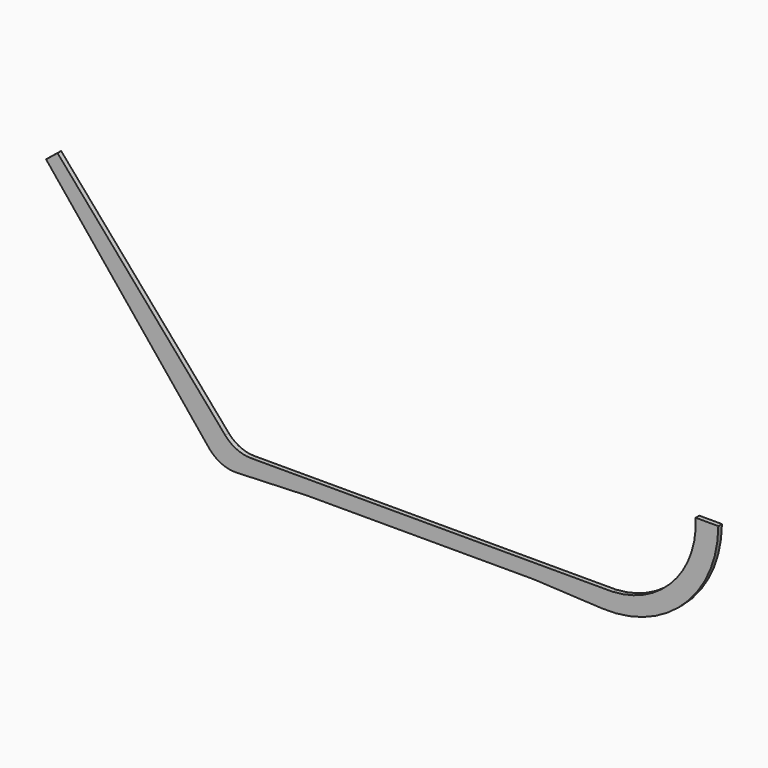
from build123d import *

# Parameters (mm, degrees)
F1_DEPTH = 4


with BuildPart() as f1:
    # F0 (on Front) → F1 (new body)
    with BuildSketch(Plane.XZ):
        with BuildLine():
            Line((-385.527944, 160.2698), (-241.525759, -17.558089))
            ThreePointArc((-241.525759, -17.558089), (-230.304761, -26.132987), (-216.403875, -28.623976))
            Line((-216.403875, -28.623976), (-154.467979, -26.245231))
            Line((-154.467979, -26.245231), (40.512071, -26.245231))
            ThreePointArc((40.512071, -26.245231), (45.507391, -26.307623), (50.499594, -26.494763))
            Line((50.499594, -26.494763), (105.50895, -29.245231))
            ThreePointArc((105.50895, -29.245231), (177.73813, -2.539338), (208.323419, 68.134555))
            Line((208.323419, 68.134555), (188.323419, 68.203713))
            ThreePointArc((188.323419, 68.203713), (168.488154, 12.245264), (114.868937, -13.245231))
            Line((114.868937, -13.245231), (-204.572373, -13.245231))
            ThreePointArc((-204.572373, -13.245231), (-217.047956, -10.528189), (-227.263761, -2.869219))
            Line((-227.263761, -2.869219), (-375.425047, 168.450965))
            Line((-375.425047, 168.450965), (-385.527944, 160.2698))
        make_face()
    extrude(amount=F1_DEPTH)


solid = f1.part
